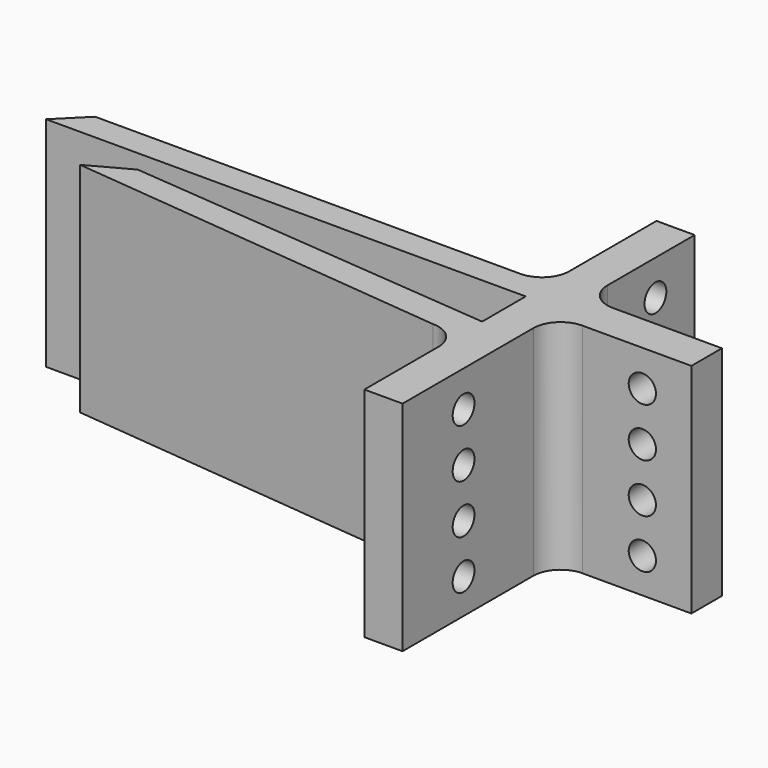
from build123d import *

# Parameters (mm, degrees)
PAD_DEPTH              = 40
SKETCH001_R            = 2.5
POCKET_DEPTH           = 7
LINEARPATTERN_COUNT    = 4
LINEARPATTERN_PITCH    = 9
SKETCH002_R            = 2.5
POCKET001_DEPTH        = 7
LINEARPATTERN001_COUNT = 4
LINEARPATTERN001_PITCH = 9
SKETCH003_R            = 2.5
POCKET002_DEPTH        = 7
LINEARPATTERN002_COUNT = 4
LINEARPATTERN002_PITCH = 9


with BuildPart() as part:
    # Sketch → Pad (new body)
    with BuildSketch(Plane.XY):
        with BuildLine():
            Line((-7, 0), (0, 0))
            Line((0, 0), (0, 30))
            ThreePointArc((5.000001, 35), (1.464466, 33.535534), (0, 30))
            Line((5.000001, 35), (25, 35))
            Line((25, 35), (25, 42))
            Line((25, 42), (5, 42))
            ThreePointArc((0, 47), (1.464466, 43.464466), (5, 42))
            Line((0, 47), (0, 67))
            Line((0, 67), (-7, 67))
            Line((-7, 67), (-7, 47))
            ThreePointArc((-12, 42), (-8.464466, 43.464466), (-7, 47))
            Line((-12, 42), (-90, 42))
            Line((-90, 42), (-95, 37))
            Line((-95, 37), (-7, 37))
            Line((-7, 37), (-7, 27))
            Line((-7, 27), (-75, 33))
            Line((-75, 33), (-82.351578, 29))
            Line((-82.351578, 29), (-12, 22))
            ThreePointArc((-7, 17), (-8.464466, 20.535534), (-12, 22))
            Line((-7, 17), (-7, 0))
        make_face()
    extrude(amount=PAD_DEPTH)

    # Sketch001 → Pocket (cut)
    with BuildSketch(Plane.YZ):
        with Locations((58, 33.523144)):
            Circle(SKETCH001_R)
    pocket = extrude(amount=-POCKET_DEPTH, mode=Mode.SUBTRACT)

    # LinearPattern: Pocket ×4
    with Locations(*[(0, 0, -i * LINEARPATTERN_PITCH) for i in range(1, LINEARPATTERN_COUNT)]):
        add(pocket, mode=Mode.SUBTRACT)

    # Sketch002 → Pocket001 (cut)
    with BuildSketch(Plane.XZ.offset(-35)):
        with Locations((16, 33.395916)):
            Circle(SKETCH002_R)
    pocket001 = extrude(amount=-POCKET001_DEPTH, mode=Mode.SUBTRACT)

    # LinearPattern001: Pocket001 ×4
    with Locations(*[(0, 0, -i * LINEARPATTERN001_PITCH) for i in range(1, LINEARPATTERN001_COUNT)]):
        add(pocket001, mode=Mode.SUBTRACT)

    # Sketch003 → Pocket002 (cut)
    with BuildSketch(Plane.YZ):
        with Locations((14, 33.378235)):
            Circle(SKETCH003_R)
    pocket002 = extrude(amount=-POCKET002_DEPTH, mode=Mode.SUBTRACT)

    # LinearPattern002: Pocket002 ×4
    with Locations(*[(0, 0, -i * LINEARPATTERN002_PITCH) for i in range(1, LINEARPATTERN002_COUNT)]):
        add(pocket002, mode=Mode.SUBTRACT)


solid = part.part
